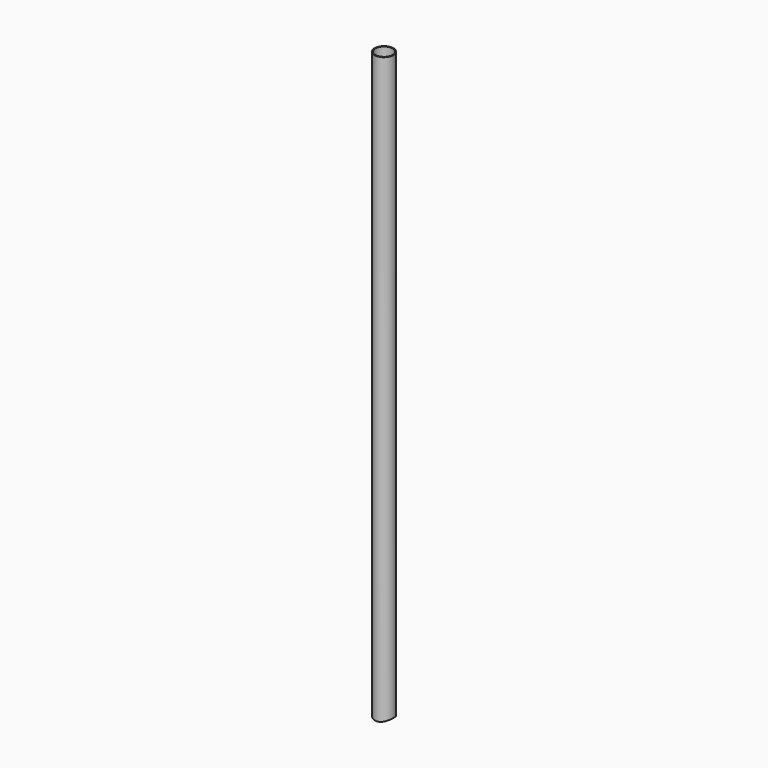
from build123d import *

# Parameters (mm, degrees)
F0_R     = 38.1
F1_DEPTH = 2438.4
F2_R     = 34.925
F3_DEPTH = 2438.401
F4_R     = 92.075
F5_DEPTH = 76.2


with BuildPart() as f1:
    # F0 (on Top) → F1 (new body)
    with BuildSketch(Plane.XY):
        Circle(F0_R)
    extrude(amount=F1_DEPTH)

    # F2 (on Top) → F3 (cut, through all)
    with BuildSketch(Plane.XY):
        Circle(F2_R)
    extrude(amount=F3_DEPTH, mode=Mode.SUBTRACT)

    # F4 (on Right) → F5 (cut, symmetric)
    with BuildSketch(Plane.YZ):
        Circle(F4_R)
    extrude(amount=F5_DEPTH, both=True, mode=Mode.SUBTRACT)


solid = f1.part
